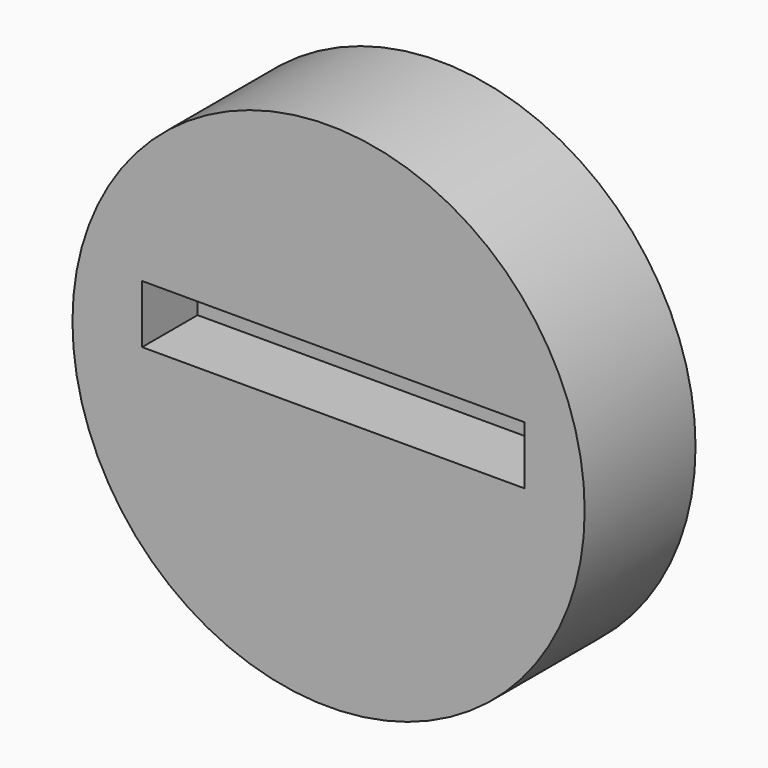
from build123d import *

# Parameters (mm, degrees)
F0_R     = 46.938629
F1_DEPTH = 25.4
F2_W     = 70.104
F2_H     = 10.672496
F3_DEPTH = 12.7


with BuildPart() as f1:
    # F0 (on Front) → F1 (new body)
    with BuildSketch(Plane.XZ):
        Circle(F0_R)
    extrude(amount=F1_DEPTH)

    # F2 (on face) → F3 (cut, symmetric)
    with BuildSketch(Plane.XZ.offset(25.4)):
        with Locations((0.886691, 5.336248)):
            Rectangle(F2_W, F2_H)
    extrude(amount=F3_DEPTH, both=True, mode=Mode.SUBTRACT)


solid = f1.part
